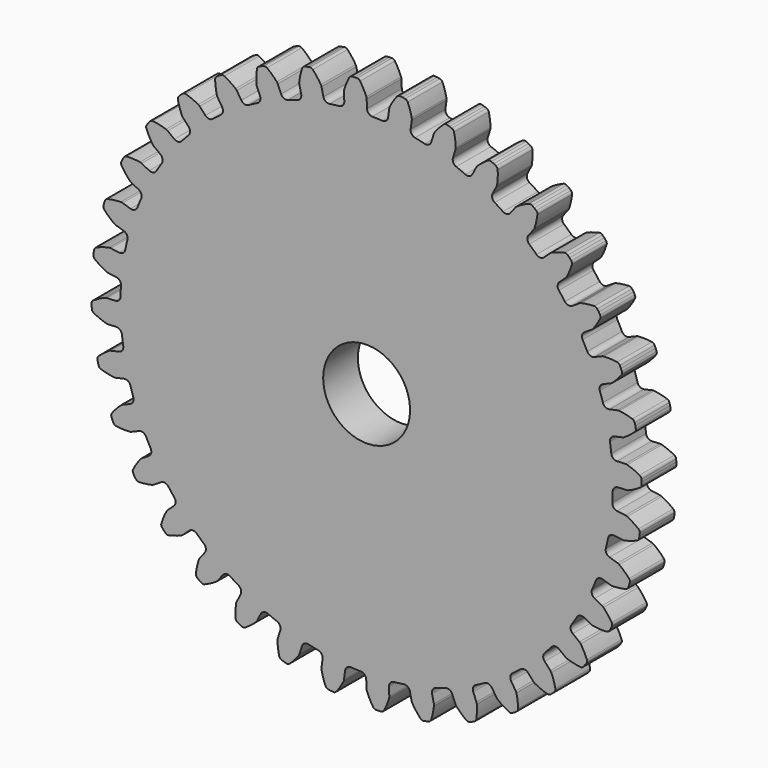
from build123d import *

# Parameters (mm, degrees)
F1_DEPTH = 6.35
F2_D     = 12.7
F2_DEPTH = 50.8


with BuildPart() as f1:
    # F0 (on Front) → F1 (new body)
    with BuildSketch(Plane.XZ):
        with BuildLine():
            ThreePointArc((-3.261005, 36.589286), (-3.452676, 36.033905), (-3.972014, 35.759177))
            ThreePointArc((-3.972014, 35.759177), (-4.696215, 35.671294), (-5.418485, 35.568745))
            ThreePointArc((-5.418485, 35.568745), (-7.787303, 35.126252), (-10.121186, 34.526182))
            ThreePointArc((-10.121186, 34.526182), (-10.819124, 34.313878), (-11.512614, 34.087466))
            ThreePointArc((-11.512614, 34.087466), (-13.768605, 33.240354), (-15.962831, 32.244126))
            ThreePointArc((-15.962831, 32.244126), (-16.6133, 31.913851), (-17.256938, 31.570457))
            ThreePointArc((-17.256938, 31.570457), (-19.331556, 30.344465), (-21.319453, 28.982349))
            ThreePointArc((-21.319453, 28.982349), (-21.902688, 28.544139), (-22.476919, 28.094195))
            ThreePointArc((-22.476919, 28.094195), (-24.307128, 26.526575), (-26.028295, 24.839958))
            ThreePointArc((-26.028295, 24.839958), (-26.526575, 24.307128), (-27.013949, 23.764305))
            ThreePointArc((-27.013949, 23.764305), (-28.544139, 21.902688), (-29.94628, 19.942817))
            ThreePointArc((-29.94628, 19.942817), (-30.344465, 19.331556), (-30.730175, 18.712348))
            ThreePointArc((-30.730175, 18.712348), (-31.913851, 16.6133), (-32.954363, 14.439724))
            ThreePointArc((-32.954363, 14.439724), (-33.240354, 13.768605), (-33.51268, 13.091827))
            ThreePointArc((-33.51268, 13.091827), (-34.313878, 10.819124), (-34.961144, 8.497887))
            ThreePointArc((-34.961144, 8.497887), (-35.126252, 7.787303), (-35.276919, 7.073517))
            ThreePointArc((-35.276919, 7.073517), (-35.671294, 4.696215), (-35.905648, 2.297846))
            ThreePointArc((-35.905648, 2.297846), (-35.944856, 1.569386), (-35.969286, 0.840282))
            ThreePointArc((-35.969286, 0.840282), (-35.944856, -1.569386), (-35.759177, -3.972014))
            ThreePointArc((-35.759177, -3.972014), (-35.671294, -4.696215), (-35.568745, -5.418485))
            ThreePointArc((-35.568745, -5.418485), (-35.126252, -7.787303), (-34.526182, -10.121186))
            ThreePointArc((-34.526182, -10.121186), (-34.313878, -10.819124), (-34.087466, -11.512614))
            ThreePointArc((-34.087466, -11.512614), (-33.240354, -13.768605), (-32.244126, -15.962831))
            ThreePointArc((-32.244126, -15.962831), (-31.913851, -16.6133), (-31.570457, -17.256938))
            ThreePointArc((-31.570457, -17.256938), (-30.344465, -19.331556), (-28.982349, -21.319453))
            ThreePointArc((-28.982349, -21.319453), (-28.544139, -21.902688), (-28.094195, -22.476919))
            ThreePointArc((-28.094195, -22.476919), (-26.526575, -24.307128), (-24.839958, -26.028295))
            ThreePointArc((-24.839958, -26.028295), (-24.307128, -26.526575), (-23.764305, -27.013949))
            ThreePointArc((-23.764305, -27.013949), (-21.902688, -28.544139), (-19.942817, -29.94628))
            ThreePointArc((-19.942817, -29.94628), (-19.331556, -30.344465), (-18.712348, -30.730175))
            ThreePointArc((-18.712348, -30.730175), (-16.6133, -31.913851), (-14.439724, -32.954363))
            ThreePointArc((-14.439724, -32.954363), (-13.768605, -33.240354), (-13.091827, -33.51268))
            ThreePointArc((-13.091827, -33.51268), (-10.819124, -34.313878), (-8.497887, -34.961144))
            ThreePointArc((-8.497887, -34.961144), (-7.787303, -35.126252), (-7.073517, -35.276919))
            ThreePointArc((-7.073517, -35.276919), (-4.696215, -35.671294), (-2.297846, -35.905648))
            ThreePointArc((-2.297846, -35.905648), (-1.569386, -35.944856), (-0.840282, -35.969286))
            ThreePointArc((-0.840282, -35.969286), (1.569386, -35.944856), (3.972014, -35.759177))
            ThreePointArc((3.972014, -35.759177), (4.696215, -35.671294), (5.418485, -35.568745))
            ThreePointArc((5.418485, -35.568745), (7.787303, -35.126252), (10.121186, -34.526182))
            ThreePointArc((10.121186, -34.526182), (10.819124, -34.313878), (11.512614, -34.087466))
            ThreePointArc((11.512614, -34.087466), (13.768605, -33.240354), (15.962831, -32.244126))
            ThreePointArc((15.962831, -32.244126), (16.6133, -31.913851), (17.256938, -31.570457))
            ThreePointArc((17.256938, -31.570457), (19.331556, -30.344465), (21.319453, -28.982349))
            ThreePointArc((21.319453, -28.982349), (21.902688, -28.544139), (22.476919, -28.094195))
            ThreePointArc((22.476919, -28.094195), (24.307128, -26.526575), (26.028295, -24.839958))
            ThreePointArc((26.028295, -24.839958), (26.526575, -24.307128), (27.013949, -23.764305))
            ThreePointArc((27.013949, -23.764305), (28.544139, -21.902688), (29.94628, -19.942817))
            ThreePointArc((29.94628, -19.942817), (30.344465, -19.331556), (30.730175, -18.712348))
            ThreePointArc((30.730175, -18.712348), (31.913851, -16.6133), (32.954363, -14.439724))
            ThreePointArc((32.954363, -14.439724), (33.240354, -13.768605), (33.51268, -13.091827))
            ThreePointArc((33.51268, -13.091827), (34.313878, -10.819124), (34.961144, -8.497887))
            ThreePointArc((34.961144, -8.497887), (35.126252, -7.787303), (35.276919, -7.073517))
            ThreePointArc((35.276919, -7.073517), (35.671294, -4.696215), (35.905648, -2.297846))
            ThreePointArc((35.905648, -2.297846), (35.944856, -1.569386), (35.969286, -0.840282))
            ThreePointArc((35.969286, -0.840282), (35.944856, 1.569386), (35.759177, 3.972014))
            ThreePointArc((35.759177, 3.972014), (35.671294, 4.696215), (35.568745, 5.418485))
            ThreePointArc((35.568745, 5.418485), (35.126252, 7.787303), (34.526182, 10.121186))
            ThreePointArc((34.526182, 10.121186), (34.313878, 10.819124), (34.087466, 11.512614))
            ThreePointArc((34.087466, 11.512614), (33.240354, 13.768605), (32.244126, 15.962831))
            ThreePointArc((32.244126, 15.962831), (31.913851, 16.6133), (31.570457, 17.256938))
            ThreePointArc((31.570457, 17.256938), (30.344465, 19.331556), (28.982349, 21.319453))
            ThreePointArc((28.982349, 21.319453), (28.544139, 21.902688), (28.094195, 22.476919))
            ThreePointArc((28.094195, 22.476919), (26.526575, 24.307128), (24.839958, 26.028295))
            ThreePointArc((24.839958, 26.028295), (24.307128, 26.526575), (23.764305, 27.013949))
            ThreePointArc((23.764305, 27.013949), (21.902688, 28.544139), (19.942817, 29.94628))
            ThreePointArc((19.942817, 29.94628), (19.331556, 30.344465), (18.712348, 30.730175))
            ThreePointArc((18.712348, 30.730175), (16.6133, 31.913851), (14.439724, 32.954363))
            ThreePointArc((14.439724, 32.954363), (13.768605, 33.240354), (13.091827, 33.51268))
            ThreePointArc((13.091827, 33.51268), (10.819124, 34.313878), (8.497887, 34.961144))
            ThreePointArc((8.497887, 34.961144), (7.787303, 35.126252), (7.073517, 35.276919))
            ThreePointArc((7.073517, 35.276919), (4.696215, 35.671294), (2.297846, 35.905648))
            ThreePointArc((2.297846, 35.905648), (1.569386, 35.944856), (0.840282, 35.969286))
            ThreePointArc((0.840282, 35.969286), (0.298976, 36.197705), (0.059629, 36.734268))
            Line((0.059629, 36.734268), (0.005723, 37.968927))
            ThreePointArc((0.005723, 37.968927), (-0.011067, 38.100691), (-0.049424, 38.227861))
            ThreePointArc((-0.049424, 38.227861), (-0.455506, 39.119209), (-0.95098, 39.96414))
            ThreePointArc((-0.95098, 39.96414), (-1.134309, 40.132123), (-1.3754, 40.192977))
            Line((-1.3754, 40.192977), (-1.754863, 40.192977))
            Line((-1.754863, 40.192977), (-2.132883, 40.159905))
            ThreePointArc((-2.132883, 40.159905), (-2.367752, 40.07827), (-2.535743, 39.894948))
            ThreePointArc((-2.535743, 39.894948), (-2.955691, 39.010049), (-3.282542, 38.0867))
            ThreePointArc((-3.282542, 38.0867), (-3.30967, 37.956671), (-3.314911, 37.823945))
            Line((-3.314911, 37.823945), (-3.261005, 36.589286))
        make_face()
        with BuildLine():
            ThreePointArc((-10.121186, 34.526182), (-7.787303, 35.126252), (-5.418485, 35.568745))
            ThreePointArc((-5.418485, 35.568745), (-5.991232, 35.699698), (-6.320116, 36.186547))
            Line((-6.320116, 36.186547), (-6.587599, 37.393088))
            ThreePointArc((-6.587599, 37.393088), (-6.627014, 37.519934), (-6.686871, 37.638512))
            ThreePointArc((-6.686871, 37.638512), (-7.241565, 38.445803), (-7.876232, 39.191859))
            ThreePointArc((-7.876232, 39.191859), (-8.085946, 39.325455), (-8.333942, 39.34352))
            Line((-8.333942, 39.34352), (-8.70764, 39.277627))
            Line((-8.70764, 39.277627), (-9.074174, 39.179415))
            ThreePointArc((-9.074174, 39.179415), (-9.291299, 39.058235), (-9.424905, 38.848527))
            ThreePointArc((-9.424905, 38.848527), (-9.684812, 37.904148), (-9.846359, 36.93807))
            ThreePointArc((-9.846359, 36.93807), (-9.850495, 36.805306), (-9.832609, 36.673686))
            Line((-9.832609, 36.673686), (-9.565126, 35.467145))
            ThreePointArc((-9.565126, 35.467145), (-9.657444, 34.886918), (-10.121186, 34.526182))
        make_face()
        with BuildLine():
            ThreePointArc((-15.962831, 32.244126), (-13.768605, 33.240354), (-11.512614, 34.087466))
            ThreePointArc((-11.512614, 34.087466), (-12.099399, 34.116973), (-12.507827, 34.539315))
            Line((-12.507827, 34.539315), (-12.98076, 35.681078))
            ThreePointArc((-12.98076, 35.681078), (-13.041603, 35.799153), (-13.121142, 35.905535))
            ThreePointArc((-13.121142, 35.905535), (-13.807593, 36.60424), (-14.56217, 37.228753))
            ThreePointArc((-14.56217, 37.228753), (-14.791896, 37.323903), (-15.039261, 37.29863))
            Line((-15.039261, 37.29863), (-15.39584, 37.168846))
            Line((-15.39584, 37.168846), (-15.739751, 37.008478))
            ThreePointArc((-15.739751, 37.008478), (-15.932535, 36.851436), (-16.027695, 36.621713))
            ThreePointArc((-16.027695, 36.621713), (-16.119664, 35.646549), (-16.110999, 34.667096))
            ThreePointArc((-16.110999, 34.667096), (-16.092018, 34.53563), (-16.051549, 34.409116))
            Line((-16.051549, 34.409116), (-15.578615, 33.267353))
            ThreePointArc((-15.578615, 33.267353), (-15.568776, 32.67991), (-15.962831, 32.244126))
        make_face()
        with BuildLine():
            ThreePointArc((-21.319453, 28.982349), (-19.331556, 30.344465), (-17.256938, 31.570457))
            ThreePointArc((-17.256938, 31.570457), (-17.839932, 31.497621), (-18.315494, 31.842624))
            Line((-18.315494, 31.842624), (-18.979508, 32.884917))
            ThreePointArc((-18.979508, 32.884917), (-19.059929, 32.990633), (-19.156733, 33.081587))
            ThreePointArc((-19.156733, 33.081587), (-19.954084, 33.650476), (-20.805643, 34.134471))
            ThreePointArc((-20.805643, 34.134471), (-21.048402, 34.188284), (-21.28762, 34.12044))
            Line((-21.28762, 34.12044), (-21.616245, 33.930708))
            Line((-21.616245, 33.930708), (-21.927083, 33.713057))
            ThreePointArc((-21.927083, 33.713057), (-22.089669, 33.524924), (-22.143492, 33.282167))
            ThreePointArc((-22.143492, 33.282167), (-22.064728, 32.305847), (-21.886115, 31.342779))
            ThreePointArc((-21.886115, 31.342779), (-21.844593, 31.216607), (-21.78277, 31.099042))
            Line((-21.78277, 31.099042), (-21.118756, 30.056749))
            ThreePointArc((-21.118756, 30.056749), (-21.007058, 29.479939), (-21.319453, 28.982349))
        make_face()
        with BuildLine():
            ThreePointArc((-26.028295, 24.839958), (-24.307128, 26.526575), (-22.476919, 28.094195))
            ThreePointArc((-22.476919, 28.094195), (-23.038408, 27.921229), (-23.566654, 28.178411))
            Line((-23.566654, 28.178411), (-24.401572, 29.089564))
            ThreePointArc((-24.401572, 29.089564), (-24.49913, 29.179709), (-24.610256, 29.252472))
            ThreePointArc((-24.610256, 29.252472), (-25.49428, 29.674259), (-26.416947, 30.003029))
            ThreePointArc((-26.416947, 30.003029), (-26.665363, 30.01387), (-26.889165, 29.905517))
            Line((-26.889165, 29.905517), (-27.179851, 29.661603))
            Line((-27.179851, 29.661603), (-27.448172, 29.393281))
            ThreePointArc((-27.448172, 29.393281), (-27.575619, 29.179774), (-27.58647, 28.931359))
            ThreePointArc((-27.58647, 28.931359), (-27.339367, 27.983549), (-26.996232, 27.066128))
            ThreePointArc((-26.996232, 27.066128), (-26.933432, 26.949082), (-26.852133, 26.844039))
            Line((-26.852133, 26.844039), (-26.017214, 25.932886))
            ThreePointArc((-26.017214, 25.932886), (-25.807051, 25.384235), (-26.028295, 24.839958))
        make_face()
        with BuildLine():
            ThreePointArc((-29.94628, 19.942817), (-28.544139, 21.902688), (-27.013949, 23.764305))
            ThreePointArc((-27.013949, 23.764305), (-27.536873, 23.496466), (-28.101753, 23.658011))
            Line((-28.101753, 23.658011), (-29.082207, 24.41034))
            ThreePointArc((-29.082207, 24.41034), (-29.193936, 24.482175), (-29.31601, 24.534535))
            ThreePointArc((-29.31601, 24.534535), (-30.259846, 24.796405), (-31.225585, 24.959961))
            ThreePointArc((-31.225585, 24.959961), (-31.47211, 24.9275), (-31.673697, 24.781931))
            Line((-31.673697, 24.781931), (-31.917611, 24.491245))
            Line((-31.917611, 24.491245), (-32.135263, 24.180406))
            ThreePointArc((-32.135263, 24.180406), (-32.223698, 23.948012), (-32.191247, 23.701486))
            ThreePointArc((-32.191247, 23.701486), (-31.783313, 22.810985), (-31.286082, 21.967086))
            ThreePointArc((-31.286082, 21.967086), (-31.203912, 21.862724), (-31.105607, 21.773394))
            Line((-31.105607, 21.773394), (-30.125153, 21.021065))
            ThreePointArc((-30.125153, 21.021065), (-29.82291, 20.517244), (-29.94628, 19.942817))
        make_face()
        with BuildLine():
            ThreePointArc((-32.954363, 14.439724), (-31.913851, 16.6133), (-30.730175, 18.712348))
            ThreePointArc((-30.730175, 18.712348), (-31.198644, 18.357774), (-31.782995, 18.418774))
            Line((-31.782995, 18.418774), (-32.879194, 18.98942))
            ThreePointArc((-32.879194, 18.98942), (-33.0017, 19.040762), (-33.131011, 19.071128))
            ThreePointArc((-33.131011, 19.071128), (-34.105982, 19.165125), (-35.08545, 19.158497))
            ThreePointArc((-35.08545, 19.158497), (-35.322593, 19.083721), (-35.495839, 18.905358))
            Line((-35.495839, 18.905358), (-35.685571, 18.576733))
            Line((-35.685571, 18.576733), (-35.845939, 18.232822))
            ThreePointArc((-35.845939, 18.232822), (-35.892676, 17.988601), (-35.81791, 17.751456))
            ThreePointArc((-35.81791, 17.751456), (-35.261539, 16.94532), (-34.625321, 16.200585))
            ThreePointArc((-34.625321, 16.200585), (-34.526276, 16.112078), (-34.413953, 16.041176))
            Line((-34.413953, 16.041176), (-33.317754, 15.47053))
            ThreePointArc((-33.317754, 15.47053), (-32.932615, 15.026847), (-32.954363, 14.439724))
        make_face()
        with BuildLine():
            ThreePointArc((-34.961144, 8.497887), (-34.313878, 10.819124), (-33.51268, 13.091827))
            ThreePointArc((-33.51268, 13.091827), (-33.912461, 12.66129), (-34.498526, 12.619893))
            Line((-34.498526, 12.619893), (-35.677164, 12.991516))
            ThreePointArc((-35.677164, 12.991516), (-35.806723, 13.020805), (-35.939343, 13.028256))
            ThreePointArc((-35.939343, 13.028256), (-36.915824, 12.951522), (-37.879262, 12.774912))
            ThreePointArc((-37.879262, 12.774912), (-38.099817, 12.660093), (-38.239459, 12.454355))
            Line((-38.239459, 12.454355), (-38.369243, 12.097776))
            Line((-38.369243, 12.097776), (-38.467455, 11.731242))
            ThreePointArc((-38.467455, 11.731242), (-38.471073, 11.482616), (-38.356263, 11.262057))
            ThreePointArc((-38.356263, 11.262057), (-37.668361, 10.564781), (-36.912487, 9.941838))
            ThreePointArc((-36.912487, 9.941838), (-36.799577, 9.871874), (-36.676649, 9.821554))
            Line((-36.676649, 9.821554), (-35.498012, 9.449931))
            ThreePointArc((-35.498012, 9.449931), (-35.041679, 9.079867), (-34.961144, 8.497887))
        make_face()
        with BuildLine():
            ThreePointArc((3.1422, 36.59968), (2.856999, 36.08602), (2.297846, 35.905648))
            ThreePointArc((2.297846, 35.905648), (4.696215, 35.671294), (7.073517, 35.276919))
            ThreePointArc((7.073517, 35.276919), (6.5801, 35.595864), (6.437562, 36.165838))
            Line((6.437562, 36.165838), (6.598871, 37.3911))
            ThreePointArc((6.598871, 37.3911), (6.605217, 37.523778), (6.589526, 37.655677))
            ThreePointArc((6.589526, 37.655677), (6.344394, 38.603998), (6.003168, 39.522131))
            ThreePointArc((6.003168, 39.522131), (5.851794, 39.719397), (5.624933, 39.821191))
            Line((5.624933, 39.821191), (5.251234, 39.887085))
            Line((5.251234, 39.887085), (4.873215, 39.920157))
            ThreePointArc((4.873215, 39.920157), (4.627738, 39.880547), (4.430465, 39.729181))
            ThreePointArc((4.430465, 39.729181), (3.863236, 38.930649), (3.381013, 38.078085))
            ThreePointArc((3.381013, 38.078085), (3.331718, 37.954742), (3.303509, 37.824943))
            Line((3.303509, 37.824943), (3.1422, 36.59968))
        make_face()
        with BuildLine():
            ThreePointArc((-35.905648, 2.297846), (-35.671294, 4.696215), (-35.276919, 7.073517))
            ThreePointArc((-35.276919, 7.073517), (-35.595864, 6.5801), (-36.165838, 6.437562))
            Line((-36.165838, 6.437562), (-37.3911, 6.598871))
            ThreePointArc((-37.3911, 6.598871), (-37.523778, 6.605217), (-37.655677, 6.589526))
            ThreePointArc((-37.655677, 6.589526), (-38.603998, 6.344394), (-39.522131, 6.003168))
            ThreePointArc((-39.522131, 6.003168), (-39.719397, 5.851794), (-39.821191, 5.624933))
            Line((-39.821191, 5.624933), (-39.887085, 5.251234))
            Line((-39.887085, 5.251234), (-39.920157, 4.873215))
            ThreePointArc((-39.920157, 4.873215), (-39.880547, 4.627738), (-39.729181, 4.430465))
            ThreePointArc((-39.729181, 4.430465), (-38.930649, 3.863236), (-38.078085, 3.381013))
            ThreePointArc((-38.078085, 3.381013), (-37.954742, 3.331718), (-37.824943, 3.303509))
            Line((-37.824943, 3.303509), (-36.59968, 3.1422))
            ThreePointArc((-36.59968, 3.1422), (-36.08602, 2.856999), (-35.905648, 2.297846))
        make_face()
        with BuildLine():
            ThreePointArc((9.449931, 35.498012), (9.079867, 35.041679), (8.497887, 34.961144))
            ThreePointArc((8.497887, 34.961144), (10.819124, 34.313878), (13.091827, 33.51268))
            ThreePointArc((13.091827, 33.51268), (12.66129, 33.912461), (12.619893, 34.498526))
            Line((12.619893, 34.498526), (12.991516, 35.677164))
            ThreePointArc((12.991516, 35.677164), (13.020805, 35.806723), (13.028256, 35.939343))
            ThreePointArc((13.028256, 35.939343), (12.951522, 36.915824), (12.774912, 37.879262))
            ThreePointArc((12.774912, 37.879262), (12.660093, 38.099817), (12.454355, 38.239459))
            Line((12.454355, 38.239459), (12.097776, 38.369243))
            Line((12.097776, 38.369243), (11.731242, 38.467455))
            ThreePointArc((11.731242, 38.467455), (11.482616, 38.471073), (11.262057, 38.356263))
            ThreePointArc((11.262057, 38.356263), (10.564781, 37.668361), (9.941838, 36.912487))
            ThreePointArc((9.941838, 36.912487), (9.871874, 36.799577), (9.821554, 36.676649))
            Line((9.821554, 36.676649), (9.449931, 35.498012))
        make_face()
        with BuildLine():
            ThreePointArc((-35.759177, -3.972014), (-35.944856, -1.569386), (-35.969286, 0.840282))
            ThreePointArc((-35.969286, 0.840282), (-36.197705, 0.298976), (-36.734268, 0.059629))
            Line((-36.734268, 0.059629), (-37.968927, 0.005723))
            ThreePointArc((-37.968927, 0.005723), (-38.100691, -0.011067), (-38.227861, -0.049424))
            ThreePointArc((-38.227861, -0.049424), (-39.119209, -0.455506), (-39.96414, -0.95098))
            ThreePointArc((-39.96414, -0.95098), (-40.132123, -1.134309), (-40.192977, -1.3754))
            Line((-40.192977, -1.3754), (-40.192977, -1.754863))
            Line((-40.192977, -1.754863), (-40.159905, -2.132883))
            ThreePointArc((-40.159905, -2.132883), (-40.07827, -2.367752), (-39.894948, -2.535743))
            ThreePointArc((-39.894948, -2.535743), (-39.010049, -2.955691), (-38.0867, -3.282542))
            ThreePointArc((-38.0867, -3.282542), (-37.956671, -3.30967), (-37.823945, -3.314911))
            Line((-37.823945, -3.314911), (-36.589286, -3.261005))
            ThreePointArc((-36.589286, -3.261005), (-36.033905, -3.452676), (-35.759177, -3.972014))
        make_face()
        with BuildLine():
            ThreePointArc((15.47053, 33.317754), (15.026847, 32.932615), (14.439724, 32.954363))
            ThreePointArc((14.439724, 32.954363), (16.6133, 31.913851), (18.712348, 30.730175))
            ThreePointArc((18.712348, 30.730175), (18.357774, 31.198644), (18.418774, 31.782995))
            Line((18.418774, 31.782995), (18.98942, 32.879194))
            ThreePointArc((18.98942, 32.879194), (19.040762, 33.0017), (19.071128, 33.131011))
            ThreePointArc((19.071128, 33.131011), (19.165125, 34.105982), (19.158497, 35.08545))
            ThreePointArc((19.158497, 35.08545), (19.083721, 35.322593), (18.905358, 35.495839))
            Line((18.905358, 35.495839), (18.576733, 35.685571))
            Line((18.576733, 35.685571), (18.232822, 35.845939))
            ThreePointArc((18.232822, 35.845939), (17.988601, 35.892676), (17.751456, 35.81791))
            ThreePointArc((17.751456, 35.81791), (16.94532, 35.261539), (16.200585, 34.625321))
            ThreePointArc((16.200585, 34.625321), (16.112078, 34.526276), (16.041176, 34.413953))
            Line((16.041176, 34.413953), (15.47053, 33.317754))
        make_face()
        with BuildLine():
            ThreePointArc((-34.526182, -10.121186), (-35.126252, -7.787303), (-35.568745, -5.418485))
            ThreePointArc((-35.568745, -5.418485), (-35.699698, -5.991232), (-36.186547, -6.320116))
            Line((-36.186547, -6.320116), (-37.393088, -6.587599))
            ThreePointArc((-37.393088, -6.587599), (-37.519934, -6.627014), (-37.638512, -6.686871))
            ThreePointArc((-37.638512, -6.686871), (-38.445803, -7.241565), (-39.191859, -7.876232))
            ThreePointArc((-39.191859, -7.876232), (-39.325455, -8.085946), (-39.34352, -8.333942))
            Line((-39.34352, -8.333942), (-39.277627, -8.70764))
            Line((-39.277627, -8.70764), (-39.179415, -9.074174))
            ThreePointArc((-39.179415, -9.074174), (-39.058235, -9.291299), (-38.848527, -9.424905))
            ThreePointArc((-38.848527, -9.424905), (-37.904148, -9.684812), (-36.93807, -9.846359))
            ThreePointArc((-36.93807, -9.846359), (-36.805306, -9.850495), (-36.673686, -9.832609))
            Line((-36.673686, -9.832609), (-35.467145, -9.565126))
            ThreePointArc((-35.467145, -9.565126), (-34.886918, -9.657444), (-34.526182, -10.121186))
        make_face()
        with BuildLine():
            ThreePointArc((21.021065, 30.125153), (20.517244, 29.82291), (19.942817, 29.94628))
            ThreePointArc((19.942817, 29.94628), (21.902688, 28.544139), (23.764305, 27.013949))
            ThreePointArc((23.764305, 27.013949), (23.496466, 27.536873), (23.658011, 28.101753))
            Line((23.658011, 28.101753), (24.41034, 29.082207))
            ThreePointArc((24.41034, 29.082207), (24.482175, 29.193936), (24.534535, 29.31601))
            ThreePointArc((24.534535, 29.31601), (24.796405, 30.259846), (24.959961, 31.225585))
            ThreePointArc((24.959961, 31.225585), (24.9275, 31.47211), (24.781931, 31.673697))
            Line((24.781931, 31.673697), (24.491245, 31.917611))
            Line((24.491245, 31.917611), (24.180406, 32.135263))
            ThreePointArc((24.180406, 32.135263), (23.948012, 32.223698), (23.701486, 32.191247))
            ThreePointArc((23.701486, 32.191247), (22.810985, 31.783313), (21.967086, 31.286082))
            ThreePointArc((21.967086, 31.286082), (21.862724, 31.203912), (21.773394, 31.105607))
            Line((21.773394, 31.105607), (21.021065, 30.125153))
        make_face()
        with BuildLine():
            ThreePointArc((-32.244126, -15.962831), (-33.240354, -13.768605), (-34.087466, -11.512614))
            ThreePointArc((-34.087466, -11.512614), (-34.116973, -12.099399), (-34.539315, -12.507827))
            Line((-34.539315, -12.507827), (-35.681078, -12.98076))
            ThreePointArc((-35.681078, -12.98076), (-35.799153, -13.041603), (-35.905535, -13.121142))
            ThreePointArc((-35.905535, -13.121142), (-36.60424, -13.807593), (-37.228753, -14.56217))
            ThreePointArc((-37.228753, -14.56217), (-37.323903, -14.791896), (-37.29863, -15.039261))
            Line((-37.29863, -15.039261), (-37.168846, -15.39584))
            Line((-37.168846, -15.39584), (-37.008478, -15.739751))
            ThreePointArc((-37.008478, -15.739751), (-36.851436, -15.932535), (-36.621713, -16.027695))
            ThreePointArc((-36.621713, -16.027695), (-35.646549, -16.119664), (-34.667096, -16.110999))
            ThreePointArc((-34.667096, -16.110999), (-34.53563, -16.092018), (-34.409116, -16.051549))
            Line((-34.409116, -16.051549), (-33.267353, -15.578615))
            ThreePointArc((-33.267353, -15.578615), (-32.67991, -15.568776), (-32.244126, -15.962831))
        make_face()
        with BuildLine():
            ThreePointArc((25.932886, 26.017214), (25.384235, 25.807051), (24.839958, 26.028295))
            ThreePointArc((24.839958, 26.028295), (26.526575, 24.307128), (28.094195, 22.476919))
            ThreePointArc((28.094195, 22.476919), (27.921229, 23.038408), (28.178411, 23.566654))
            Line((28.178411, 23.566654), (29.089564, 24.401572))
            ThreePointArc((29.089564, 24.401572), (29.179709, 24.49913), (29.252472, 24.610256))
            ThreePointArc((29.252472, 24.610256), (29.674259, 25.49428), (30.003029, 26.416947))
            ThreePointArc((30.003029, 26.416947), (30.01387, 26.665363), (29.905517, 26.889165))
            Line((29.905517, 26.889165), (29.661603, 27.179851))
            Line((29.661603, 27.179851), (29.393281, 27.448172))
            ThreePointArc((29.393281, 27.448172), (29.179774, 27.575619), (28.931359, 27.58647))
            ThreePointArc((28.931359, 27.58647), (27.983549, 27.339367), (27.066128, 26.996232))
            ThreePointArc((27.066128, 26.996232), (26.949082, 26.933432), (26.844039, 26.852133))
            Line((26.844039, 26.852133), (25.932886, 26.017214))
        make_face()
        with BuildLine():
            ThreePointArc((-28.982349, -21.319453), (-30.344465, -19.331556), (-31.570457, -17.256938))
            ThreePointArc((-31.570457, -17.256938), (-31.497621, -17.839932), (-31.842624, -18.315494))
            Line((-31.842624, -18.315494), (-32.884917, -18.979508))
            ThreePointArc((-32.884917, -18.979508), (-32.990633, -19.059929), (-33.081587, -19.156733))
            ThreePointArc((-33.081587, -19.156733), (-33.650476, -19.954084), (-34.134471, -20.805643))
            ThreePointArc((-34.134471, -20.805643), (-34.188284, -21.048402), (-34.12044, -21.28762))
            Line((-34.12044, -21.28762), (-33.930708, -21.616245))
            Line((-33.930708, -21.616245), (-33.713057, -21.927083))
            ThreePointArc((-33.713057, -21.927083), (-33.524924, -22.089669), (-33.282167, -22.143492))
            ThreePointArc((-33.282167, -22.143492), (-32.305847, -22.064728), (-31.342779, -21.886115))
            ThreePointArc((-31.342779, -21.886115), (-31.216607, -21.844593), (-31.099042, -21.78277))
            Line((-31.099042, -21.78277), (-30.056749, -21.118756))
            ThreePointArc((-30.056749, -21.118756), (-29.479939, -21.007058), (-28.982349, -21.319453))
        make_face()
        with BuildLine():
            ThreePointArc((30.056749, 21.118756), (29.479939, 21.007058), (28.982349, 21.319453))
            ThreePointArc((28.982349, 21.319453), (30.344465, 19.331556), (31.570457, 17.256938))
            ThreePointArc((31.570457, 17.256938), (31.497621, 17.839932), (31.842624, 18.315494))
            Line((31.842624, 18.315494), (32.884917, 18.979508))
            ThreePointArc((32.884917, 18.979508), (32.990633, 19.059929), (33.081587, 19.156733))
            ThreePointArc((33.081587, 19.156733), (33.650476, 19.954084), (34.134471, 20.805643))
            ThreePointArc((34.134471, 20.805643), (34.188284, 21.048402), (34.12044, 21.28762))
            Line((34.12044, 21.28762), (33.930708, 21.616245))
            Line((33.930708, 21.616245), (33.713057, 21.927083))
            ThreePointArc((33.713057, 21.927083), (33.524924, 22.089669), (33.282167, 22.143492))
            ThreePointArc((33.282167, 22.143492), (32.305847, 22.064728), (31.342779, 21.886115))
            ThreePointArc((31.342779, 21.886115), (31.216607, 21.844593), (31.099042, 21.78277))
            Line((31.099042, 21.78277), (30.056749, 21.118756))
        make_face()
        with BuildLine():
            ThreePointArc((-24.839958, -26.028295), (-26.526575, -24.307128), (-28.094195, -22.476919))
            ThreePointArc((-28.094195, -22.476919), (-27.921229, -23.038408), (-28.178411, -23.566654))
            Line((-28.178411, -23.566654), (-29.089564, -24.401572))
            ThreePointArc((-29.089564, -24.401572), (-29.179709, -24.49913), (-29.252472, -24.610256))
            ThreePointArc((-29.252472, -24.610256), (-29.674259, -25.49428), (-30.003029, -26.416947))
            ThreePointArc((-30.003029, -26.416947), (-30.01387, -26.665363), (-29.905517, -26.889165))
            Line((-29.905517, -26.889165), (-29.661603, -27.179851))
            Line((-29.661603, -27.179851), (-29.393281, -27.448172))
            ThreePointArc((-29.393281, -27.448172), (-29.179774, -27.575619), (-28.931359, -27.58647))
            ThreePointArc((-28.931359, -27.58647), (-27.983549, -27.339367), (-27.066128, -26.996232))
            ThreePointArc((-27.066128, -26.996232), (-26.949082, -26.933432), (-26.844039, -26.852133))
            Line((-26.844039, -26.852133), (-25.932886, -26.017214))
            ThreePointArc((-25.932886, -26.017214), (-25.384235, -25.807051), (-24.839958, -26.028295))
        make_face()
        with BuildLine():
            ThreePointArc((33.267353, 15.578615), (32.67991, 15.568776), (32.244126, 15.962831))
            ThreePointArc((32.244126, 15.962831), (33.240354, 13.768605), (34.087466, 11.512614))
            ThreePointArc((34.087466, 11.512614), (34.116973, 12.099399), (34.539315, 12.507827))
            Line((34.539315, 12.507827), (35.681078, 12.98076))
            ThreePointArc((35.681078, 12.98076), (35.799153, 13.041603), (35.905535, 13.121142))
            ThreePointArc((35.905535, 13.121142), (36.60424, 13.807593), (37.228753, 14.56217))
            ThreePointArc((37.228753, 14.56217), (37.323903, 14.791896), (37.29863, 15.039261))
            Line((37.29863, 15.039261), (37.168846, 15.39584))
            Line((37.168846, 15.39584), (37.008478, 15.739751))
            ThreePointArc((37.008478, 15.739751), (36.851436, 15.932535), (36.621713, 16.027695))
            ThreePointArc((36.621713, 16.027695), (35.646549, 16.119664), (34.667096, 16.110999))
            ThreePointArc((34.667096, 16.110999), (34.53563, 16.092018), (34.409116, 16.051549))
            Line((34.409116, 16.051549), (33.267353, 15.578615))
        make_face()
        with BuildLine():
            ThreePointArc((-19.942817, -29.94628), (-21.902688, -28.544139), (-23.764305, -27.013949))
            ThreePointArc((-23.764305, -27.013949), (-23.496466, -27.536873), (-23.658011, -28.101753))
            Line((-23.658011, -28.101753), (-24.41034, -29.082207))
            ThreePointArc((-24.41034, -29.082207), (-24.482175, -29.193936), (-24.534535, -29.31601))
            ThreePointArc((-24.534535, -29.31601), (-24.796405, -30.259846), (-24.959961, -31.225585))
            ThreePointArc((-24.959961, -31.225585), (-24.9275, -31.47211), (-24.781931, -31.673697))
            Line((-24.781931, -31.673697), (-24.491245, -31.917611))
            Line((-24.491245, -31.917611), (-24.180406, -32.135263))
            ThreePointArc((-24.180406, -32.135263), (-23.948012, -32.223698), (-23.701486, -32.191247))
            ThreePointArc((-23.701486, -32.191247), (-22.810985, -31.783313), (-21.967086, -31.286082))
            ThreePointArc((-21.967086, -31.286082), (-21.862724, -31.203912), (-21.773394, -31.105607))
            Line((-21.773394, -31.105607), (-21.021065, -30.125153))
            ThreePointArc((-21.021065, -30.125153), (-20.517244, -29.82291), (-19.942817, -29.94628))
        make_face()
        with BuildLine():
            ThreePointArc((35.467145, 9.565126), (34.886918, 9.657444), (34.526182, 10.121186))
            ThreePointArc((34.526182, 10.121186), (35.126252, 7.787303), (35.568745, 5.418485))
            ThreePointArc((35.568745, 5.418485), (35.699698, 5.991232), (36.186547, 6.320116))
            Line((36.186547, 6.320116), (37.393088, 6.587599))
            ThreePointArc((37.393088, 6.587599), (37.519934, 6.627014), (37.638512, 6.686871))
            ThreePointArc((37.638512, 6.686871), (38.445803, 7.241565), (39.191859, 7.876232))
            ThreePointArc((39.191859, 7.876232), (39.325455, 8.085946), (39.34352, 8.333942))
            Line((39.34352, 8.333942), (39.277627, 8.70764))
            Line((39.277627, 8.70764), (39.179415, 9.074174))
            ThreePointArc((39.179415, 9.074174), (39.058235, 9.291299), (38.848527, 9.424905))
            ThreePointArc((38.848527, 9.424905), (37.904148, 9.684812), (36.93807, 9.846359))
            ThreePointArc((36.93807, 9.846359), (36.805306, 9.850495), (36.673686, 9.832609))
            Line((36.673686, 9.832609), (35.467145, 9.565126))
        make_face()
        with BuildLine():
            ThreePointArc((-14.439724, -32.954363), (-16.6133, -31.913851), (-18.712348, -30.730175))
            ThreePointArc((-18.712348, -30.730175), (-18.357774, -31.198644), (-18.418774, -31.782995))
            Line((-18.418774, -31.782995), (-18.98942, -32.879194))
            ThreePointArc((-18.98942, -32.879194), (-19.040762, -33.0017), (-19.071128, -33.131011))
            ThreePointArc((-19.071128, -33.131011), (-19.165125, -34.105982), (-19.158497, -35.08545))
            ThreePointArc((-19.158497, -35.08545), (-19.083721, -35.322593), (-18.905358, -35.495839))
            Line((-18.905358, -35.495839), (-18.576733, -35.685571))
            Line((-18.576733, -35.685571), (-18.232822, -35.845939))
            ThreePointArc((-18.232822, -35.845939), (-17.988601, -35.892676), (-17.751456, -35.81791))
            ThreePointArc((-17.751456, -35.81791), (-16.94532, -35.261539), (-16.200585, -34.625321))
            ThreePointArc((-16.200585, -34.625321), (-16.112078, -34.526276), (-16.041176, -34.413953))
            Line((-16.041176, -34.413953), (-15.47053, -33.317754))
            ThreePointArc((-15.47053, -33.317754), (-15.026847, -32.932615), (-14.439724, -32.954363))
        make_face()
        with BuildLine():
            ThreePointArc((36.589286, 3.261005), (36.033905, 3.452676), (35.759177, 3.972014))
            ThreePointArc((35.759177, 3.972014), (35.944856, 1.569386), (35.969286, -0.840282))
            ThreePointArc((35.969286, -0.840282), (36.197705, -0.298976), (36.734268, -0.059629))
            Line((36.734268, -0.059629), (37.968927, -0.005723))
            ThreePointArc((37.968927, -0.005723), (38.100691, 0.011067), (38.227861, 0.049424))
            ThreePointArc((38.227861, 0.049424), (39.119209, 0.455506), (39.96414, 0.95098))
            ThreePointArc((39.96414, 0.95098), (40.132123, 1.134309), (40.192977, 1.3754))
            Line((40.192977, 1.3754), (40.192977, 1.754863))
            Line((40.192977, 1.754863), (40.159905, 2.132883))
            ThreePointArc((40.159905, 2.132883), (40.07827, 2.367752), (39.894948, 2.535743))
            ThreePointArc((39.894948, 2.535743), (39.010049, 2.955691), (38.0867, 3.282542))
            ThreePointArc((38.0867, 3.282542), (37.956671, 3.30967), (37.823945, 3.314911))
            Line((37.823945, 3.314911), (36.589286, 3.261005))
        make_face()
        with BuildLine():
            ThreePointArc((-8.497887, -34.961144), (-10.819124, -34.313878), (-13.091827, -33.51268))
            ThreePointArc((-13.091827, -33.51268), (-12.66129, -33.912461), (-12.619893, -34.498526))
            Line((-12.619893, -34.498526), (-12.991516, -35.677164))
            ThreePointArc((-12.991516, -35.677164), (-13.020805, -35.806723), (-13.028256, -35.939343))
            ThreePointArc((-13.028256, -35.939343), (-12.951522, -36.915824), (-12.774912, -37.879262))
            ThreePointArc((-12.774912, -37.879262), (-12.660093, -38.099817), (-12.454355, -38.239459))
            Line((-12.454355, -38.239459), (-12.097776, -38.369243))
            Line((-12.097776, -38.369243), (-11.731242, -38.467455))
            ThreePointArc((-11.731242, -38.467455), (-11.482616, -38.471073), (-11.262057, -38.356263))
            ThreePointArc((-11.262057, -38.356263), (-10.564781, -37.668361), (-9.941838, -36.912487))
            ThreePointArc((-9.941838, -36.912487), (-9.871874, -36.799577), (-9.821554, -36.676649))
            Line((-9.821554, -36.676649), (-9.449931, -35.498012))
            ThreePointArc((-9.449931, -35.498012), (-9.079867, -35.041679), (-8.497887, -34.961144))
        make_face()
        with BuildLine():
            ThreePointArc((36.59968, -3.1422), (36.08602, -2.856999), (35.905648, -2.297846))
            ThreePointArc((35.905648, -2.297846), (35.671294, -4.696215), (35.276919, -7.073517))
            ThreePointArc((35.276919, -7.073517), (35.595864, -6.5801), (36.165838, -6.437562))
            Line((36.165838, -6.437562), (37.3911, -6.598871))
            ThreePointArc((37.3911, -6.598871), (37.523778, -6.605217), (37.655677, -6.589526))
            ThreePointArc((37.655677, -6.589526), (38.603998, -6.344394), (39.522131, -6.003168))
            ThreePointArc((39.522131, -6.003168), (39.719397, -5.851794), (39.821191, -5.624933))
            Line((39.821191, -5.624933), (39.887085, -5.251234))
            Line((39.887085, -5.251234), (39.920157, -4.873215))
            ThreePointArc((39.920157, -4.873215), (39.880547, -4.627738), (39.729181, -4.430465))
            ThreePointArc((39.729181, -4.430465), (38.930649, -3.863236), (38.078085, -3.381013))
            ThreePointArc((38.078085, -3.381013), (37.954742, -3.331718), (37.824943, -3.303509))
            Line((37.824943, -3.303509), (36.59968, -3.1422))
        make_face()
        with BuildLine():
            ThreePointArc((-2.297846, -35.905648), (-4.696215, -35.671294), (-7.073517, -35.276919))
            ThreePointArc((-7.073517, -35.276919), (-6.5801, -35.595864), (-6.437562, -36.165838))
            Line((-6.437562, -36.165838), (-6.598871, -37.3911))
            ThreePointArc((-6.598871, -37.3911), (-6.605217, -37.523778), (-6.589526, -37.655677))
            ThreePointArc((-6.589526, -37.655677), (-6.344394, -38.603998), (-6.003168, -39.522131))
            ThreePointArc((-6.003168, -39.522131), (-5.851794, -39.719397), (-5.624933, -39.821191))
            Line((-5.624933, -39.821191), (-5.251234, -39.887085))
            Line((-5.251234, -39.887085), (-4.873215, -39.920157))
            ThreePointArc((-4.873215, -39.920157), (-4.627738, -39.880547), (-4.430465, -39.729181))
            ThreePointArc((-4.430465, -39.729181), (-3.863236, -38.930649), (-3.381013, -38.078085))
            ThreePointArc((-3.381013, -38.078085), (-3.331718, -37.954742), (-3.303509, -37.824943))
            Line((-3.303509, -37.824943), (-3.1422, -36.59968))
            ThreePointArc((-3.1422, -36.59968), (-2.856999, -36.08602), (-2.297846, -35.905648))
        make_face()
        with BuildLine():
            ThreePointArc((35.498012, -9.449931), (35.041679, -9.079867), (34.961144, -8.497887))
            ThreePointArc((34.961144, -8.497887), (34.313878, -10.819124), (33.51268, -13.091827))
            ThreePointArc((33.51268, -13.091827), (33.912461, -12.66129), (34.498526, -12.619893))
            Line((34.498526, -12.619893), (35.677164, -12.991516))
            ThreePointArc((35.677164, -12.991516), (35.806723, -13.020805), (35.939343, -13.028256))
            ThreePointArc((35.939343, -13.028256), (36.915824, -12.951522), (37.879262, -12.774912))
            ThreePointArc((37.879262, -12.774912), (38.099817, -12.660093), (38.239459, -12.454355))
            Line((38.239459, -12.454355), (38.369243, -12.097776))
            Line((38.369243, -12.097776), (38.467455, -11.731242))
            ThreePointArc((38.467455, -11.731242), (38.471073, -11.482616), (38.356263, -11.262057))
            ThreePointArc((38.356263, -11.262057), (37.668361, -10.564781), (36.912487, -9.941838))
            ThreePointArc((36.912487, -9.941838), (36.799577, -9.871874), (36.676649, -9.821554))
            Line((36.676649, -9.821554), (35.498012, -9.449931))
        make_face()
        with BuildLine():
            ThreePointArc((3.972014, -35.759177), (1.569386, -35.944856), (-0.840282, -35.969286))
            ThreePointArc((-0.840282, -35.969286), (-0.298976, -36.197705), (-0.059629, -36.734268))
            Line((-0.059629, -36.734268), (-0.005723, -37.968927))
            ThreePointArc((-0.005723, -37.968927), (0.011067, -38.100691), (0.049424, -38.227861))
            ThreePointArc((0.049424, -38.227861), (0.455506, -39.119209), (0.95098, -39.96414))
            ThreePointArc((0.95098, -39.96414), (1.134309, -40.132123), (1.3754, -40.192977))
            Line((1.3754, -40.192977), (1.754863, -40.192977))
            Line((1.754863, -40.192977), (2.132883, -40.159905))
            ThreePointArc((2.132883, -40.159905), (2.367752, -40.07827), (2.535743, -39.894948))
            ThreePointArc((2.535743, -39.894948), (2.955691, -39.010049), (3.282542, -38.0867))
            ThreePointArc((3.282542, -38.0867), (3.30967, -37.956671), (3.314911, -37.823945))
            Line((3.314911, -37.823945), (3.261005, -36.589286))
            ThreePointArc((3.261005, -36.589286), (3.452676, -36.033905), (3.972014, -35.759177))
        make_face()
        with BuildLine():
            ThreePointArc((33.317754, -15.47053), (32.932615, -15.026847), (32.954363, -14.439724))
            ThreePointArc((32.954363, -14.439724), (31.913851, -16.6133), (30.730175, -18.712348))
            ThreePointArc((30.730175, -18.712348), (31.198644, -18.357774), (31.782995, -18.418774))
            Line((31.782995, -18.418774), (32.879194, -18.98942))
            ThreePointArc((32.879194, -18.98942), (33.0017, -19.040762), (33.131011, -19.071128))
            ThreePointArc((33.131011, -19.071128), (34.105982, -19.165125), (35.08545, -19.158497))
            ThreePointArc((35.08545, -19.158497), (35.322593, -19.083721), (35.495839, -18.905358))
            Line((35.495839, -18.905358), (35.685571, -18.576733))
            Line((35.685571, -18.576733), (35.845939, -18.232822))
            ThreePointArc((35.845939, -18.232822), (35.892676, -17.988601), (35.81791, -17.751456))
            ThreePointArc((35.81791, -17.751456), (35.261539, -16.94532), (34.625321, -16.200585))
            ThreePointArc((34.625321, -16.200585), (34.526276, -16.112078), (34.413953, -16.041176))
            Line((34.413953, -16.041176), (33.317754, -15.47053))
        make_face()
        with BuildLine():
            ThreePointArc((10.121186, -34.526182), (7.787303, -35.126252), (5.418485, -35.568745))
            ThreePointArc((5.418485, -35.568745), (5.991232, -35.699698), (6.320116, -36.186547))
            Line((6.320116, -36.186547), (6.587599, -37.393088))
            ThreePointArc((6.587599, -37.393088), (6.627014, -37.519934), (6.686871, -37.638512))
            ThreePointArc((6.686871, -37.638512), (7.241565, -38.445803), (7.876232, -39.191859))
            ThreePointArc((7.876232, -39.191859), (8.085946, -39.325455), (8.333942, -39.34352))
            Line((8.333942, -39.34352), (8.70764, -39.277627))
            Line((8.70764, -39.277627), (9.074174, -39.179415))
            ThreePointArc((9.074174, -39.179415), (9.291299, -39.058235), (9.424905, -38.848527))
            ThreePointArc((9.424905, -38.848527), (9.684812, -37.904148), (9.846359, -36.93807))
            ThreePointArc((9.846359, -36.93807), (9.850495, -36.805306), (9.832609, -36.673686))
            Line((9.832609, -36.673686), (9.565126, -35.467145))
            ThreePointArc((9.565126, -35.467145), (9.657444, -34.886918), (10.121186, -34.526182))
        make_face()
        with BuildLine():
            ThreePointArc((30.125153, -21.021065), (29.82291, -20.517244), (29.94628, -19.942817))
            ThreePointArc((29.94628, -19.942817), (28.544139, -21.902688), (27.013949, -23.764305))
            ThreePointArc((27.013949, -23.764305), (27.536873, -23.496466), (28.101753, -23.658011))
            Line((28.101753, -23.658011), (29.082207, -24.41034))
            ThreePointArc((29.082207, -24.41034), (29.193936, -24.482175), (29.31601, -24.534535))
            ThreePointArc((29.31601, -24.534535), (30.259846, -24.796405), (31.225585, -24.959961))
            ThreePointArc((31.225585, -24.959961), (31.47211, -24.9275), (31.673697, -24.781931))
            Line((31.673697, -24.781931), (31.917611, -24.491245))
            Line((31.917611, -24.491245), (32.135263, -24.180406))
            ThreePointArc((32.135263, -24.180406), (32.223698, -23.948012), (32.191247, -23.701486))
            ThreePointArc((32.191247, -23.701486), (31.783313, -22.810985), (31.286082, -21.967086))
            ThreePointArc((31.286082, -21.967086), (31.203912, -21.862724), (31.105607, -21.773394))
            Line((31.105607, -21.773394), (30.125153, -21.021065))
        make_face()
        with BuildLine():
            ThreePointArc((15.962831, -32.244126), (13.768605, -33.240354), (11.512614, -34.087466))
            ThreePointArc((11.512614, -34.087466), (12.099399, -34.116973), (12.507827, -34.539315))
            Line((12.507827, -34.539315), (12.98076, -35.681078))
            ThreePointArc((12.98076, -35.681078), (13.041603, -35.799153), (13.121142, -35.905535))
            ThreePointArc((13.121142, -35.905535), (13.807593, -36.60424), (14.56217, -37.228753))
            ThreePointArc((14.56217, -37.228753), (14.791896, -37.323903), (15.039261, -37.29863))
            Line((15.039261, -37.29863), (15.39584, -37.168846))
            Line((15.39584, -37.168846), (15.739751, -37.008478))
            ThreePointArc((15.739751, -37.008478), (15.932535, -36.851436), (16.027695, -36.621713))
            ThreePointArc((16.027695, -36.621713), (16.119664, -35.646549), (16.110999, -34.667096))
            ThreePointArc((16.110999, -34.667096), (16.092018, -34.53563), (16.051549, -34.409116))
            Line((16.051549, -34.409116), (15.578615, -33.267353))
            ThreePointArc((15.578615, -33.267353), (15.568776, -32.67991), (15.962831, -32.244126))
        make_face()
        with BuildLine():
            ThreePointArc((26.017214, -25.932886), (25.807051, -25.384235), (26.028295, -24.839958))
            ThreePointArc((26.028295, -24.839958), (24.307128, -26.526575), (22.476919, -28.094195))
            ThreePointArc((22.476919, -28.094195), (23.038408, -27.921229), (23.566654, -28.178411))
            Line((23.566654, -28.178411), (24.401572, -29.089564))
            ThreePointArc((24.401572, -29.089564), (24.49913, -29.179709), (24.610256, -29.252472))
            ThreePointArc((24.610256, -29.252472), (25.49428, -29.674259), (26.416947, -30.003029))
            ThreePointArc((26.416947, -30.003029), (26.665363, -30.01387), (26.889165, -29.905517))
            Line((26.889165, -29.905517), (27.179851, -29.661603))
            Line((27.179851, -29.661603), (27.448172, -29.393281))
            ThreePointArc((27.448172, -29.393281), (27.575619, -29.179774), (27.58647, -28.931359))
            ThreePointArc((27.58647, -28.931359), (27.339367, -27.983549), (26.996232, -27.066128))
            ThreePointArc((26.996232, -27.066128), (26.933432, -26.949082), (26.852133, -26.844039))
            Line((26.852133, -26.844039), (26.017214, -25.932886))
        make_face()
        with BuildLine():
            ThreePointArc((21.319453, -28.982349), (19.331556, -30.344465), (17.256938, -31.570457))
            ThreePointArc((17.256938, -31.570457), (17.839932, -31.497621), (18.315494, -31.842624))
            Line((18.315494, -31.842624), (18.979508, -32.884917))
            ThreePointArc((18.979508, -32.884917), (19.059929, -32.990633), (19.156733, -33.081587))
            ThreePointArc((19.156733, -33.081587), (19.954084, -33.650476), (20.805643, -34.134471))
            ThreePointArc((20.805643, -34.134471), (21.048402, -34.188284), (21.28762, -34.12044))
            Line((21.28762, -34.12044), (21.616245, -33.930708))
            Line((21.616245, -33.930708), (21.927083, -33.713057))
            ThreePointArc((21.927083, -33.713057), (22.089669, -33.524924), (22.143492, -33.282167))
            ThreePointArc((22.143492, -33.282167), (22.064728, -32.305847), (21.886115, -31.342779))
            ThreePointArc((21.886115, -31.342779), (21.844593, -31.216607), (21.78277, -31.099042))
            Line((21.78277, -31.099042), (21.118756, -30.056749))
            ThreePointArc((21.118756, -30.056749), (21.007058, -29.479939), (21.319453, -28.982349))
        make_face()
    extrude(amount=F1_DEPTH)

    # F2
    with Locations(Plane(origin=(0, 0, 0), x_dir=(1, 0, 0), z_dir=(0, 1, 0))):
        with Locations((0, 0)):
            Hole(F2_D / 2, depth=F2_DEPTH)


solid = f1.part
